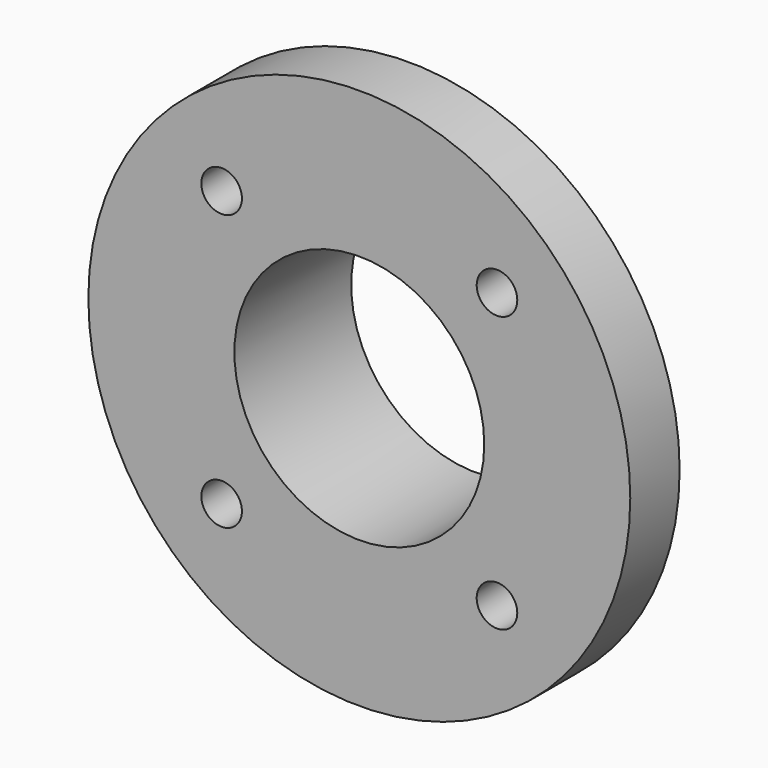
from build123d import *

# Parameters (mm, degrees)
SKETCH001_R  = 1.25
POCKET_DEPTH = 3


with BuildPart() as part:
    # Sketch → Revolution (revolve)
    with BuildSketch(Plane.XY):
        Polygon((7.7, 0), (16.7, 0), (16.7, 3.803848), (7.7, 9), align=None)
    revolve(axis=Axis((0, 0, 0), (0, 1, 0)))

    # Sketch001 (on Face1 of Revolution) → Pocket (cut)
    with BuildSketch(Plane.XZ):
        with Locations((-8.485281, 8.485281)):
            Circle(SKETCH001_R)
        with Locations((8.485281, 8.485281)):
            Circle(SKETCH001_R)
        with Locations((8.485281, -8.485281)):
            Circle(SKETCH001_R)
        with Locations((-8.485281, -8.485281)):
            Circle(SKETCH001_R)
    extrude(amount=-POCKET_DEPTH, mode=Mode.SUBTRACT)


solid = part.part
